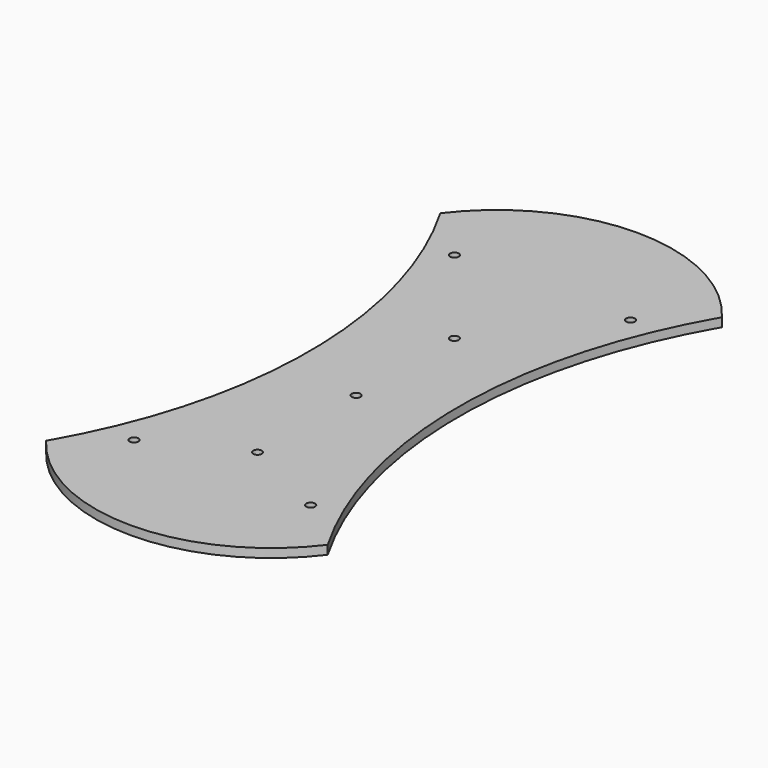
from build123d import *

# Parameters (mm, degrees)
F0_W     = 101.6
F0_H     = 177.8
F0_R     = 1.5875
F1_DEPTH = 3.175
F3_DEPTH = 25.4
F5_DEPTH = 3.175


with BuildPart() as f1:
    # F0 (on Top) → F1 (new body)
    with BuildSketch(Plane.XY):
        with Locations((50.8, 88.9)):
            Rectangle(F0_W, F0_H)
        with Locations((19.05, 15.875)):
            Circle(F0_R, mode=Mode.SUBTRACT)
        with Locations((50.897908, 31.750108)):
            Circle(F0_R, mode=Mode.SUBTRACT)
        with Locations((82.728313, 15.910065)):
            Circle(F0_R, mode=Mode.SUBTRACT)
        with Locations((50.897908, 76.200108)):
            Circle(F0_R, mode=Mode.SUBTRACT)
        with Locations((50.8, 120.65)):
            Circle(F0_R, mode=Mode.SUBTRACT)
        with Locations((19.05, 160.3375)):
            Circle(F0_R, mode=Mode.SUBTRACT)
        with Locations((82.569213, 160.372478)):
            Circle(F0_R, mode=Mode.SUBTRACT)
    extrude(amount=F1_DEPTH)

    # F2 (on face) → F3 (cut)
    with BuildSketch(Plane.XY.offset(3.175)):
        with BuildLine():
            Line((101.6, 0), (101.6, 177.8))
            ThreePointArc((101.6, 177.8), (77.779317, 88.9), (101.6, 0))
        make_face()
        with BuildLine():
            ThreePointArc((0, 0), (23.820683, 88.9), (0, 177.8))
            Line((0, 177.8), (0, 0))
        make_face()
    extrude(amount=-F3_DEPTH, mode=Mode.SUBTRACT)

    # F4 (on face) → F5 (join, through all)
    with BuildSketch(Plane.XY.offset(3.175)):
        with BuildLine():
            Line((0, 177.8), (101.6, 177.8))
            ThreePointArc((101.6, 177.8), (50.8, 203.2), (0, 177.8))
        make_face()
        with BuildLine():
            ThreePointArc((0, 0), (50.8, -25.4), (101.6, 0))
            Line((101.6, 0), (0, 0))
        make_face()
    extrude(amount=-F5_DEPTH)


solid = f1.part
